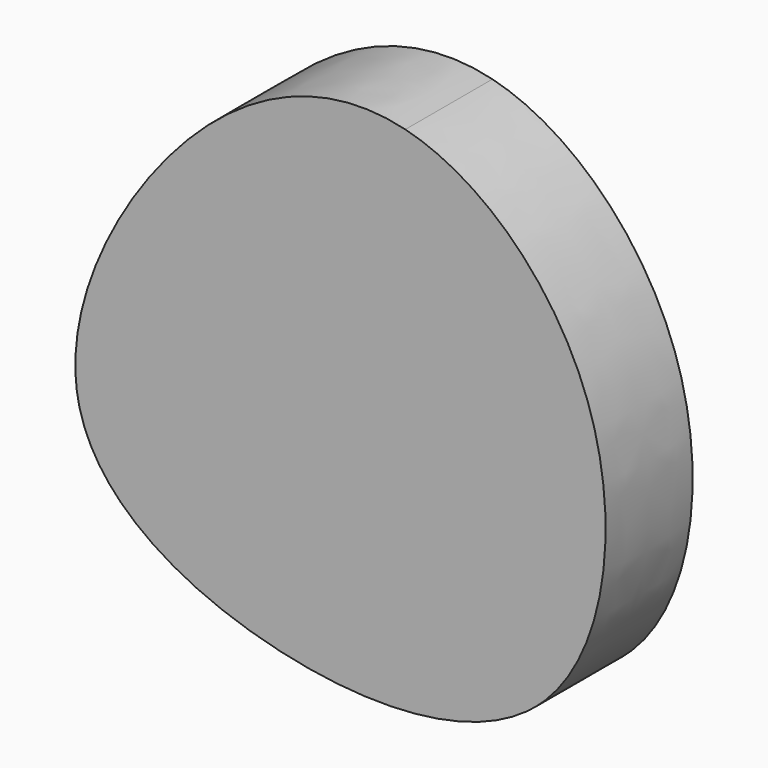
from build123d import *

# Parameters (mm, degrees)
F1_DEPTH = 25


with BuildPart() as f1:
    # F0 (on Front) → F1 (new body)
    with BuildSketch(Plane.XZ):
        with BuildLine():
            add(Edge.make_bspline(
                [(46.3677966583, -40.866191285), (60.5314949171, -26.8188090558), (67.0552800257, 26.1787242604), (32.0402860919, 59.7390767103), (14.2739130568, 64.1683309994)],
                knots=[0.6630378271, 0.6630378271, 0.6630378271, 0.6630378271, 0.8343244929, 1, 1, 1, 1], degree=3))
            Line((14.2739130568, 64.1683309994), (46.3677966583, -40.866191285))
        make_face()
        Polygon((46.3677966583, -40.866191285), (14.2739130568, 64.1683309994), (-60.6417097151, -16.1430486478), align=None)
        with BuildLine():
            Line((-60.6417097151, -16.1430486478), (14.2739130568, 64.1683309994))
            add(Edge.make_bspline(
                [(14.2739130568, 64.1683309994), (-2.1056480748, 68.251845471), (-38.6797990109, 54.8422051815), (-65.3069955436, 3.5873014332), (-60.6417097151, -16.1430486478)],
                knots=[0, 0, 0, 0, 0.1527431677, 0.3315913165, 0.3315913165, 0.3315913165, 0.3315913165], degree=3))
        make_face()
        with BuildLine():
            add(Edge.make_bspline(
                [(-60.6417097151, -16.1430486478), (-56.3948558914, -34.1037729778), (-15.6502197467, -57.3165030653), (32.4230050929, -54.6964645404), (46.3677966583, -40.866191285)],
                knots=[0.3315913165, 0.3315913165, 0.3315913165, 0.3315913165, 0.4943984782, 0.6630378271, 0.6630378271, 0.6630378271, 0.6630378271], degree=3))
            Line((46.3677966583, -40.866191285), (-60.6417097151, -16.1430486478))
        make_face()
    extrude(amount=F1_DEPTH)


solid = f1.part
